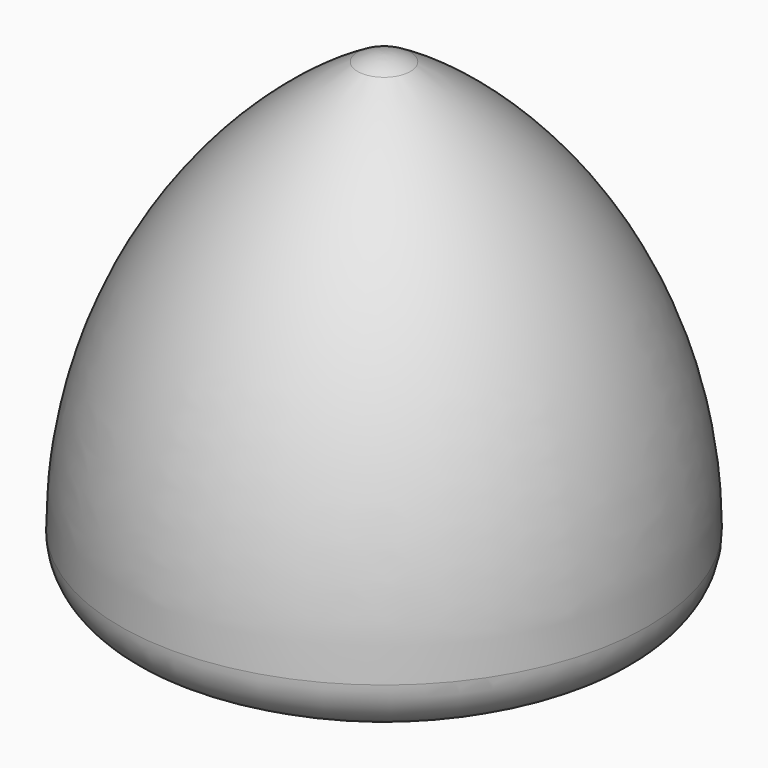
from build123d import *


with BuildPart() as f1:
    # F0 (on Front) → F1 (revolve)
    with BuildSketch(Plane.XZ):
        with BuildLine():
            Line((0, -21.905989), (0, 28.094011))
            ThreePointArc((0, 28.094011), (-1.294095, 27.92364), (-2.5, 27.424138))
            ThreePointArc((-2.5, 27.424138), (-18.971143, 10.952995), (-25, -11.547005))
            ThreePointArc((-25, -11.547005), (-24.330127, -14.047005), (-22.5, -15.877132))
            ThreePointArc((-22.5, -15.877132), (-11.646857, -20.372651), (0, -21.905989))
        make_face()
    revolve(axis=Axis((0, 0, 3.094011), (0, 0, -1)))


solid = f1.part
